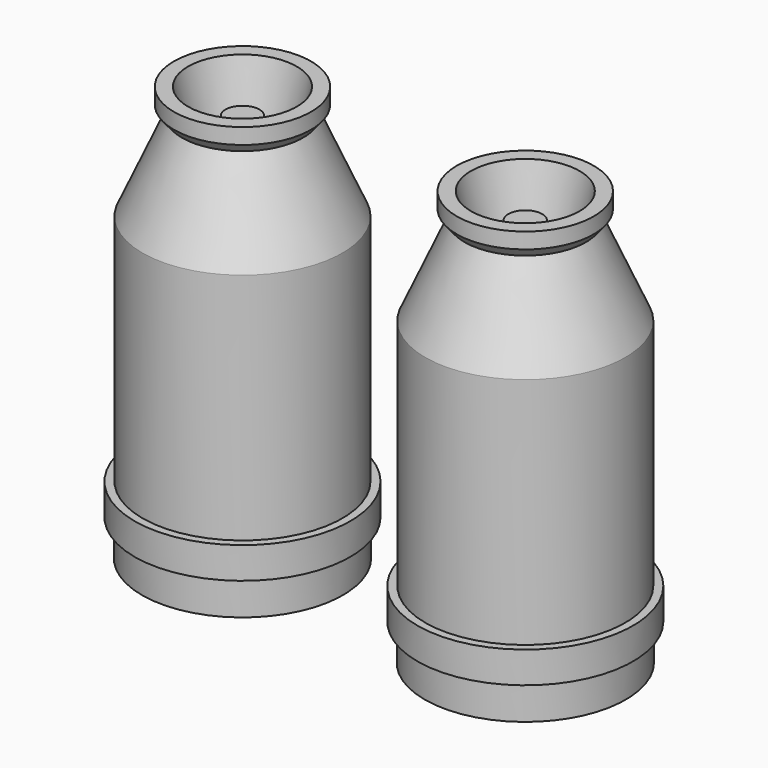
from build123d import *


with BuildPart() as f1:
    # F0 (on Front) → F1 (revolve)
    with BuildSketch(Plane.XZ):
        Polygon((-142.1871483326, 0), (0, 0), (0, 550.6084561348), (-23.9976532757, 550.6084561348), (-23.9976532757, 494.4212734699), (-54.6881221235, 482.1450710297), (-76.8796950579, 587), (-96.9146007299, 587), (-96.9146007299, 564.7307038307), (-85.7975149155, 551.2313842773), (-141.3829290867, 425.7671833038), (-141.3829290867, 95.4310819507), (-152.5, 95.4310819507), (-152.5, 50.9627610445), (-142.1871483326, 50.9627610445), align=None)
    revolve(axis=Axis((0, 0, 336.5113697946), (0, 0, 1)))


with BuildPart() as f2_1:
    # F2: copy of F1
    add(f1.part.moved(Location((400, 0, 0))))


solid = Compound([f1.part, f2_1.part])
